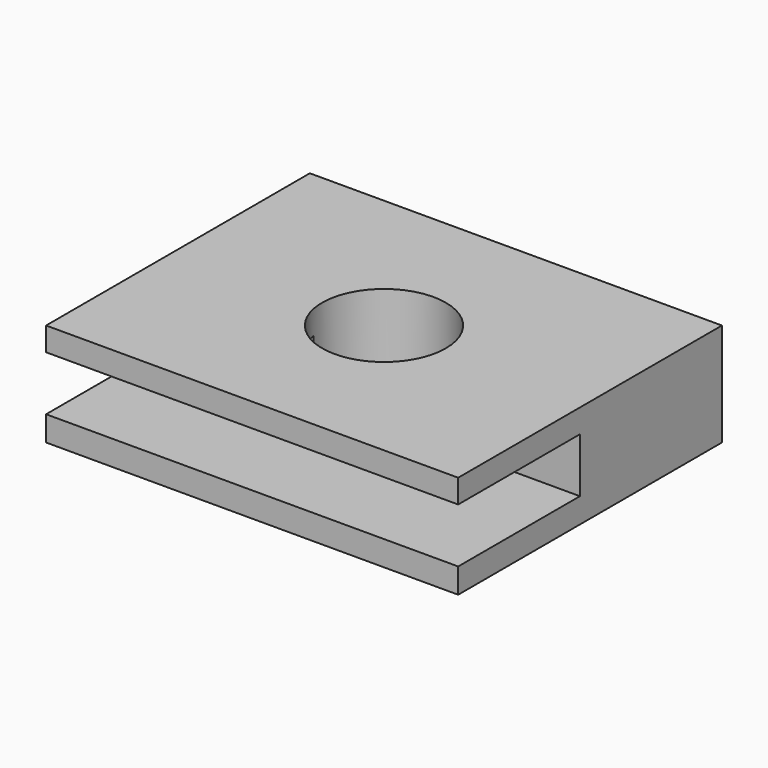
from build123d import *

# Parameters (mm, degrees)
F0_W     = 100
F0_H     = 80
F0_R     = 15
F1_DEPTH = 25
F2_W     = 47.389767
F2_H     = 13.236273
F3_DEPTH = 50


with BuildPart() as f1:
    # F0 (on Top) → F1 (new body)
    with BuildSketch(Plane.XY):
        Rectangle(F0_W, F0_H)
        Circle(F0_R, mode=Mode.SUBTRACT)
    extrude(amount=F1_DEPTH)

    # F2 (on Right) → F3 (cut, symmetric)
    with BuildSketch(Plane.YZ):
        with Locations((-26.768697, 12.659147)):
            Rectangle(F2_W, F2_H)
    extrude(amount=F3_DEPTH, both=True, mode=Mode.SUBTRACT)


solid = f1.part
